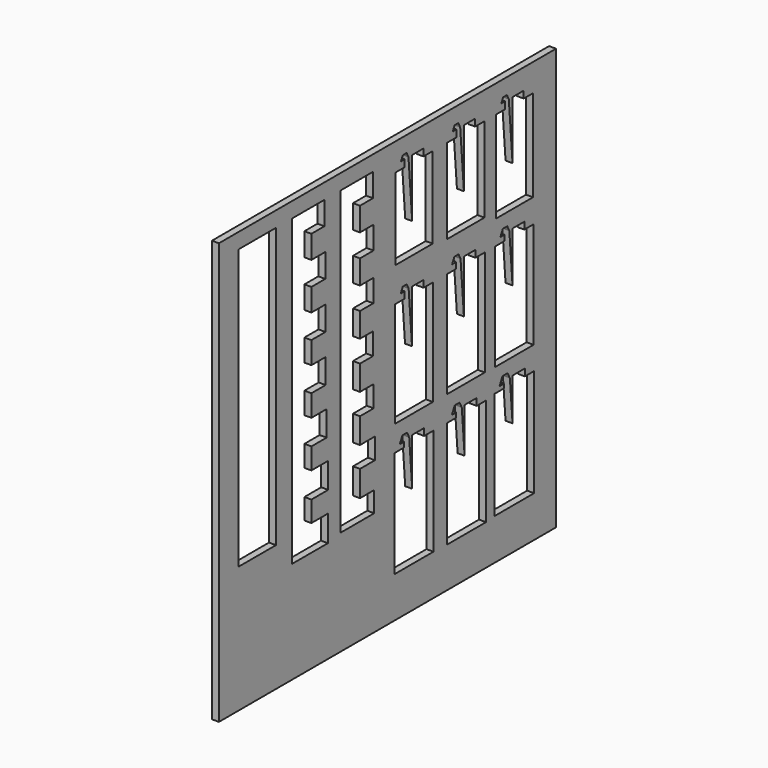
from build123d import *

# Parameters (mm, degrees)
F0_W     = 181
F0_H     = 181
F0_W_2   = 20
F0_H_2   = 120
F1_DEPTH = 3


with BuildPart() as f1:
    # F0 (on Right) → F1 (new body)
    with BuildSketch(Plane.YZ):
        Rectangle(F0_W, F0_H)
        Polygon((8.017361, -22.155164), (10.511788, -22.155164), (11.657102, -24.445793), (13.264574, -44.539195), (13.264574, -24.155164), (19.664574, -24.155164), (19.664574, -27.155164), (24.664574, -27.155164), (24.664574, -72.955163), (3.864575, -72.955163), (3.864575, -27.155164), (8.864575, -27.155164), (8.864575, -24.955163), (6.617362, -24.955163), align=None, mode=Mode.SUBTRACT)
        Polygon((31.895746, -73.251659), (31.895746, -27.251661), (36.895746, -27.251661), (36.895746, -25.251659), (34.586729, -25.251659), (36.086728, -22.251661), (38.70476, -22.251661), (39.886403, -24.614947), (41.395744, -43.481709), (41.395744, -24.251661), (47.895743, -24.251661), (47.895743, -27.251661), (52.895743, -27.251661), (52.895743, -73.251659), align=None, mode=Mode.SUBTRACT)
        Polygon((73.728273, -23.606915), (73.728273, -26.606915), (78.728273, -26.606915), (78.728273, -72.806911), (57.528277, -72.806911), (57.528277, -26.606915), (62.528277, -26.606915), (62.528277, -24.806911), (60.157458, -24.806911), (61.757456, -21.606915), (64.499095, -21.606915), (65.717066, -24.042858), (67.128275, -41.682975), (67.128275, -23.606915), align=None, mode=Mode.SUBTRACT)
        with Locations((-69.899997, 23.899991)):
            Rectangle(F0_W_2, F0_H_2, mode=Mode.SUBTRACT)
        Polygon((-51.186814, -46.700009), (-51.186814, 83.899991), (-33.861232, 83.899991), (-33.861232, 73.899991), (-40.861232, 73.899991), (-40.861232, 63.999991), (-33.400224, 63.999991), (-33.400224, 53.799991), (-40.861232, 53.799991), (-40.861232, 44.099991), (-33.300224, 44.099991), (-33.300224, 33.699991), (-40.861232, 33.699991), (-40.861232, 24.199991), (-33.200224, 24.199991), (-33.200224, 13.599991), (-40.861232, 13.599991), (-40.861232, 4.299991), (-32.686683, 4.299991), (-32.686683, -6.500009), (-40.861232, -6.500009), (-40.861232, -15.600009), (-31.84899, -15.600009), (-31.84899, -26.600009), (-40.861232, -26.600009), (-40.861232, -35.500009), (-31.998828, -35.500009), (-31.998828, -46.700009), align=None, mode=Mode.SUBTRACT)
        Polygon((-7.774414, 73.899968), (-14.774414, 73.899968), (-14.774414, 63.799968), (-7.513406, 63.799968), (-7.513406, 53.999968), (-14.774414, 53.999968), (-14.774414, 43.699968), (-7.613406, 43.699968), (-7.613406, 34.099968), (-14.774414, 34.099968), (-14.774414, 23.599968), (-7.713406, 23.599968), (-7.713406, 14.199968), (-14.774414, 14.199968), (-14.774414, 3.499968), (-7.399865, 3.499968), (-7.399865, -5.700032), (-14.774414, -5.700032), (-14.774414, -16.600032), (-6.762172, -16.600032), (-6.762172, -25.600032), (-14.774414, -25.600032), (-14.774414, -36.700032), (-7.11201, -36.700032), (-7.11201, -45.500032), (-25.099996, -45.500032), (-25.099996, 83.899968), (-7.774414, 83.899968), align=None, mode=Mode.SUBTRACT)
        Polygon((19.364575, 31.999375), (19.364575, 28.999375), (24.364575, 28.999375), (24.364575, -16.200625), (4.164575, -16.200625), (4.164575, 28.999375), (9.164575, 28.999375), (9.164575, 31.799375), (7.102771, 31.799375), (8.202771, 33.999375), (10.326378, 33.999375), (11.362707, 31.926718), (13.164575, 9.403368), (13.164575, 31.999375), align=None, mode=Mode.SUBTRACT)
        Polygon((38.151176, 34.027429), (39.223833, 31.882114), (41.027569, 9.33542), (41.027569, 32.027429), (47.227569, 32.027429), (47.227569, 29.027429), (52.227569, 29.027429), (52.227569, -16.372571), (31.827568, -16.372571), (31.827568, 29.027429), (36.827568, 29.027429), (36.827568, 31.627429), (34.703961, 31.627429), (35.903962, 34.027429), align=None, mode=Mode.SUBTRACT)
        Polygon((73.428275, 32.017772), (73.428275, 29.017772), (78.428275, 29.017772), (78.428275, -16.582227), (57.828276, -16.582227), (57.828276, 29.017772), (62.828276, 29.017772), (62.828276, 31.417773), (60.642866, 31.417773), (61.942866, 34.017772), (64.313686, 34.017772), (65.422671, 31.799801), (67.128276, 10.479749), (67.128276, 32.017772), align=None, mode=Mode.SUBTRACT)
        Polygon((4.264574, 43.70002), (4.264574, 78.70002), (9.264574, 78.70002), (9.264574, 81.70002), (7.264574, 81.70002), (8.264574, 83.70002), (10.264574, 83.70002), (11.264574, 81.70002), (13.264574, 56.70002), (13.264574, 81.70002), (19.264574, 81.70002), (19.264574, 78.70002), (24.264574, 78.70002), (24.264574, 43.70002), align=None, mode=Mode.SUBTRACT)
        Polygon((32.027569, 42.248159), (32.027569, 78.70002), (37.027569, 78.70002), (37.027569, 81.70002), (35.027569, 81.70002), (36.027569, 83.70002), (38.027569, 83.70002), (39.027569, 81.70002), (41.027569, 56.70002), (41.027569, 81.70002), (47.027569, 81.70002), (47.027569, 78.70002), (52.027569, 78.70002), (52.027569, 42.248159), align=None, mode=Mode.SUBTRACT)
        Polygon((58.128275, 39.344446), (58.128275, 78.70002), (63.128275, 78.70002), (63.128275, 81.70002), (61.128275, 81.70002), (62.128275, 83.70002), (64.128275, 83.70002), (65.128275, 81.70002), (67.128275, 56.70002), (67.128275, 81.70002), (73.128275, 81.70002), (73.128275, 78.70002), (78.128275, 78.70002), (78.128275, 39.344446), align=None, mode=Mode.SUBTRACT)
    extrude(amount=F1_DEPTH)


solid = f1.part
